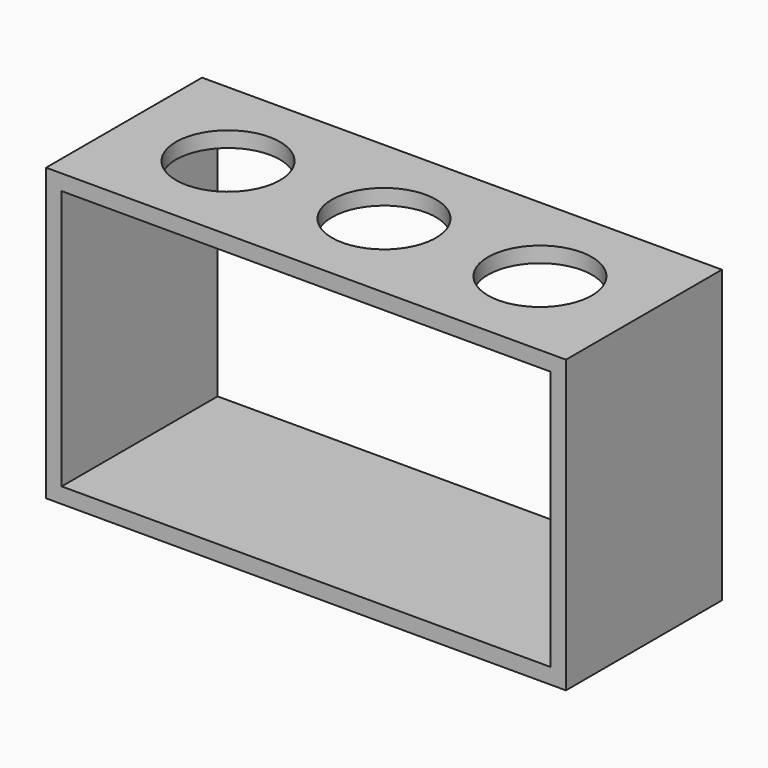
from build123d import *

# Parameters (mm, degrees)
F0_W      = 400
F0_H      = 150
F1_DEPTH  = 12
F2_W      = 12
F2_H      = 150
F3_DEPTH  = 200
F4_W      = 12
F4_H      = 150
F5_DEPTH  = 200
F6_W      = 400
F6_H      = 150
F7_DEPTH  = 12
F9_D      = 80
F9_DEPTH  = 12
F10_D     = 80
F10_DEPTH = 12
F11_D     = 80
F11_DEPTH = 12


with BuildPart() as f1:
    # F0 (on Top) → F1 (new body)
    with BuildSketch(Plane.XY):
        with Locations((200, 75)):
            Rectangle(F0_W, F0_H)
    extrude(amount=F1_DEPTH)

    # F2 (on face) → F3 (join)
    with BuildSketch(Plane.XY.offset(12)):
        with Locations((6, 75)):
            Rectangle(F2_W, F2_H)
    extrude(amount=F3_DEPTH)

    # F4 (on face) → F5 (join)
    with BuildSketch(Plane.XY.offset(12)):
        with Locations((394, 75)):
            Rectangle(F4_W, F4_H)
    extrude(amount=F5_DEPTH)

    # F6 (on face) → F7 (join)
    with BuildSketch(Plane.XY.offset(212)):
        with Locations((200, 75)):
            Rectangle(F6_W, F6_H)
    extrude(amount=F7_DEPTH)

    # F9
    with Locations(Plane.XY.offset(224)):
        with Locations((80, 75)):
            Hole(F9_D / 2, depth=F9_DEPTH)

    # F10
    with Locations(Plane.XY.offset(224)):
        with Locations((200, 75)):
            Hole(F10_D / 2, depth=F10_DEPTH)

    # F11
    with Locations(Plane.XY.offset(224)):
        with Locations((320, 75)):
            Hole(F11_D / 2, depth=F11_DEPTH)


solid = f1.part
